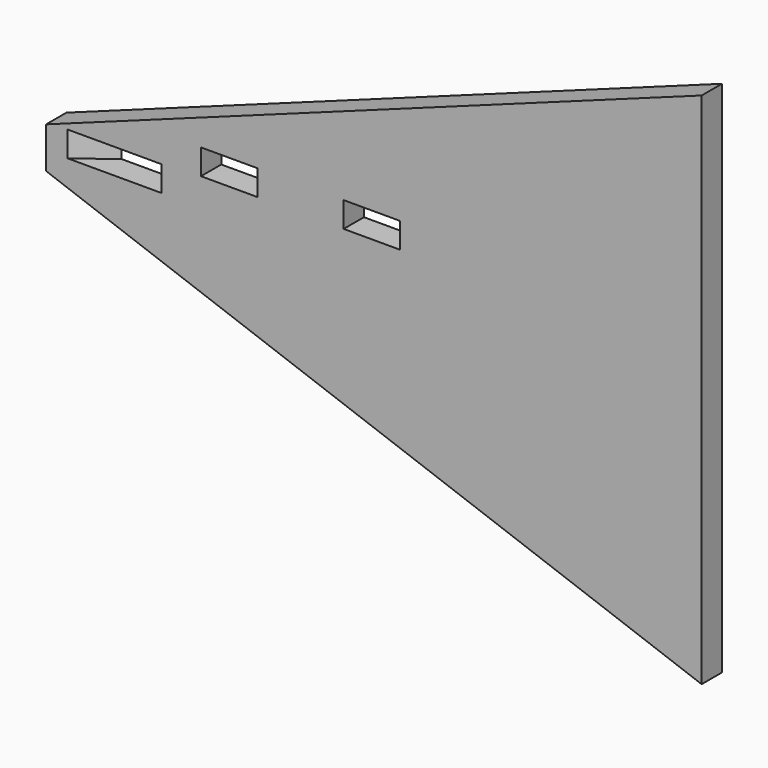
from build123d import *

# Parameters (mm, degrees)
BOX006_W               = 10
BOX006_H               = 154
BOX006_DEPTH           = 4.5
BOX006_PLACEMENT_ANGLE = 307
BOX001_W               = 10
BOX001_H               = 232
BOX001_DEPTH           = 4.5
BOX_W                  = 10
BOX_H                  = 232
BOX_DEPTH              = 4.5
PAD001_DEPTH           = 4.5


with BuildPart() as front_spar001:
    # Box006 → Box006 (new body)
    with BuildSketch(Plane.XY):
        with Locations((5, 77)):
            Rectangle(BOX006_W, BOX006_H)
    extrude(amount=BOX006_DEPTH)


with BuildPart() as front_spar001_1:
    # Box006 placement: moved
    add(front_spar001.part.moved(Location((34.287817, 50.032507, -2.4))).rotate(Axis((34.287817, 50.032507, -2.4), (0, 0, 1)), BOX006_PLACEMENT_ANGLE))


with BuildPart() as cube001:
    # Box001 → Box001 (new body)
    with BuildSketch(Plane(origin=(164.7, -92.4, 2.5), x_dir=(1, 0, 0), z_dir=(0, 0, 1))):
        with Locations((5, 116)):
            Rectangle(BOX001_W, BOX001_H)
    extrude(amount=BOX001_DEPTH)


with BuildPart() as cube:
    # Box → Box (new body)
    with BuildSketch(Plane(origin=(190, -89.9, 2.5), x_dir=(1, 0, 0), z_dir=(0, 0, 1))):
        with Locations((5, 116)):
            Rectangle(BOX_W, BOX_H)
    extrude(amount=BOX_DEPTH)


with BuildPart() as cut035:
    # Sketch001 → Pad001 (new body)
    with BuildSketch(Plane.XZ):
        Polygon((-112.766838, 5.66261), (-112.766838, -1.625728), (3.473136, -43.933619), (3.473136, 47.970501), align=None)
    extrude(amount=PAD001_DEPTH)


with BuildPart() as cut035_1:
    # Body001 placement: moved
    add(cut035.part.moved(Location((250, 135, -4))))

    # Cut011: cut Cube
    add(cube.part, mode=Mode.SUBTRACT)

    # Cut023: cut Cube001
    add(cube001.part, mode=Mode.SUBTRACT)

    # Cut035: cut front spar001
    add(front_spar001_1.part, mode=Mode.SUBTRACT)


solid = cut035_1.part
